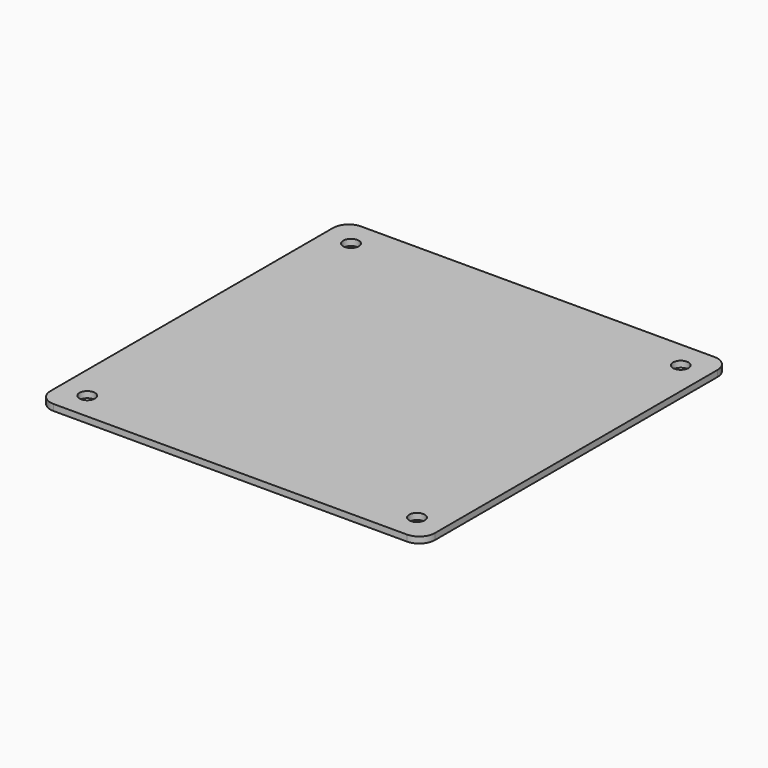
from build123d import *

# Parameters (mm, degrees)
F0_W     = 123.6
F0_H     = 123.6
F1_DEPTH = 2
F2_D     = 5
F2_DEPTH = 4
F3_R     = 5


with BuildPart() as f1:
    # F0 (on Top) → F1 (new body)
    with BuildSketch(Plane.XY):
        Rectangle(F0_W, F0_H)
    extrude(amount=F1_DEPTH)

    # F2
    with Locations(Plane(origin=(0, 0, 0), x_dir=(1, 0, 0), z_dir=(0, 0, -1))):
        with Locations((-53, 53), (53, 53), (-53, -53), (53, -53)):
            Hole(F2_D / 2, depth=F2_DEPTH)

    # F3
    f3_edges = [f1.edges().sort_by_distance(p)[0] for p in [
        (61.8, -61.8, 1),
        (-61.8, -61.8, 1),
        (-61.8, 61.8, 1),
        (61.8, 61.8, 1),
    ]]
    fillet(f3_edges, radius=F3_R)


solid = f1.part
